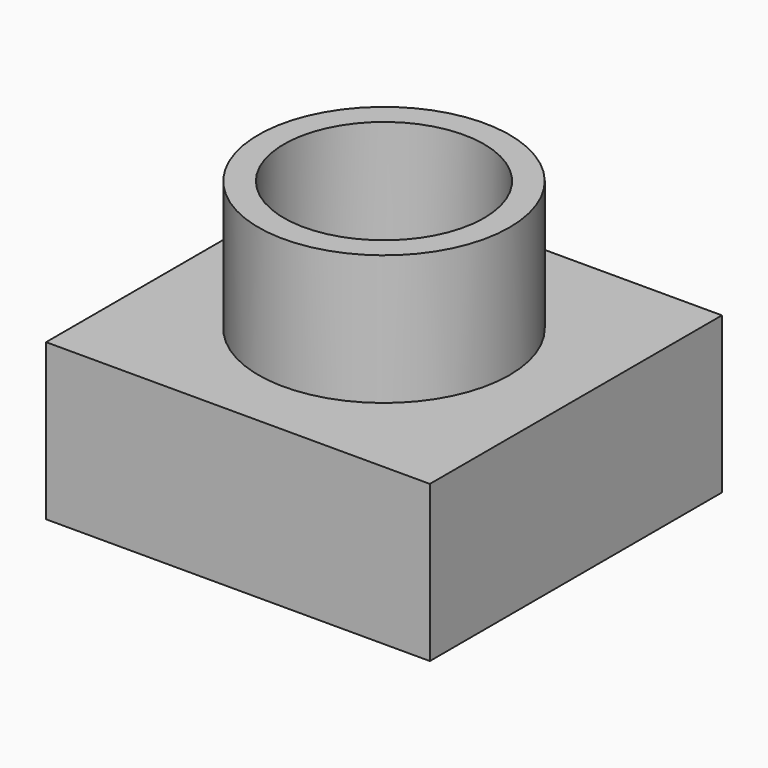
from build123d import *

# Parameters (mm, degrees)
F0_W     = 73.822246
F0_H     = 70.221156
F1_DEPTH = 30
F2_R     = 19.249212
F3_DEPTH = 30.001
F4_R     = 24.146454
F4_R_2   = 19.249212
F5_DEPTH = 25


with BuildPart() as f1:
    # F0 (on Top) → F1 (new body)
    with BuildSketch(Plane.XY):
        Rectangle(F0_W, F0_H)
    extrude(amount=F1_DEPTH)

    # F2 (on face) → F3 (cut, through all)
    with BuildSketch(Plane.XY.offset(30)):
        Circle(F2_R)
    extrude(amount=-F3_DEPTH, mode=Mode.SUBTRACT)

    # F4 (on face) → F5 (join)
    with BuildSketch(Plane.XY.offset(30)):
        Circle(F4_R)
        Circle(F4_R_2, mode=Mode.SUBTRACT)
    extrude(amount=F5_DEPTH)


solid = f1.part
